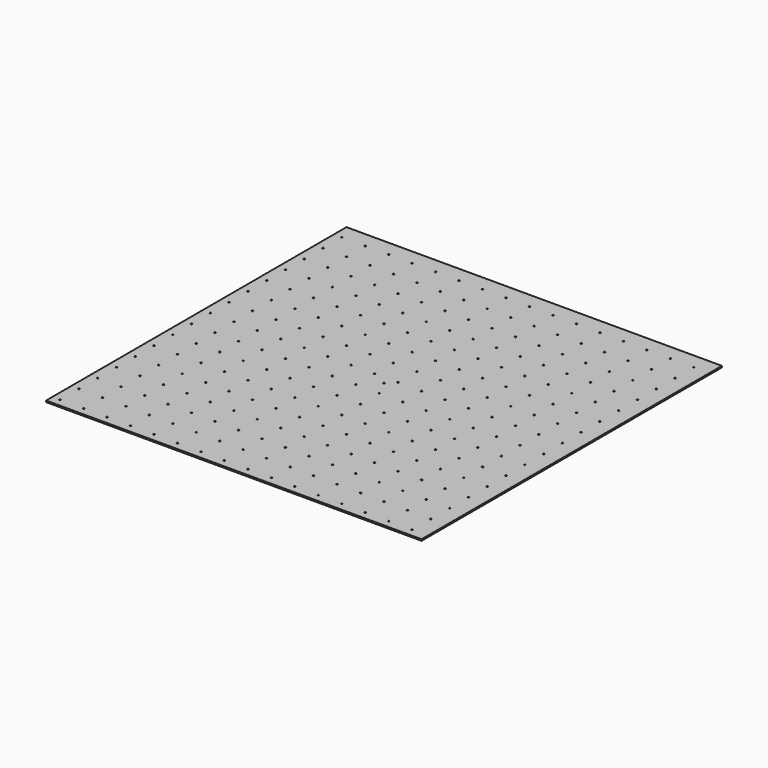
from build123d import *

# Parameters (mm, degrees)
F0_W     = 1219.2
F0_H     = 1219.2
F0_R     = 2.38125
F1_DEPTH = 4.7625


with BuildPart() as f1:
    # F0 (on Top) → F1 (new body)
    with BuildSketch(Plane.XY):
        with Locations((-738.404383, -0.706413)):
            Rectangle(F0_W, F0_H)
        with Locations((-1322.604383, -584.906413)):
            Circle(F0_R, mode=Mode.SUBTRACT)
        with Locations((-1246.404383, -584.906413)):
            Circle(F0_R, mode=Mode.SUBTRACT)
        with Locations((-1322.604383, -508.706413)):
            Circle(F0_R, mode=Mode.SUBTRACT)
        with Locations((-1246.404383, -508.706413)):
            Circle(F0_R, mode=Mode.SUBTRACT)
        with Locations((-1170.204383, -584.906413)):
            Circle(F0_R, mode=Mode.SUBTRACT)
        with Locations((-1094.004383, -584.906413)):
            Circle(F0_R, mode=Mode.SUBTRACT)
        with Locations((-1170.204383, -508.706413)):
            Circle(F0_R, mode=Mode.SUBTRACT)
        with Locations((-1094.004383, -508.706413)):
            Circle(F0_R, mode=Mode.SUBTRACT)
        with Locations((-1322.604383, -432.506413)):
            Circle(F0_R, mode=Mode.SUBTRACT)
        with Locations((-1246.404383, -432.506413)):
            Circle(F0_R, mode=Mode.SUBTRACT)
        with Locations((-1322.604383, -356.306413)):
            Circle(F0_R, mode=Mode.SUBTRACT)
        with Locations((-1246.404383, -356.306413)):
            Circle(F0_R, mode=Mode.SUBTRACT)
        with Locations((-1170.204383, -432.506413)):
            Circle(F0_R, mode=Mode.SUBTRACT)
        with Locations((-1094.004383, -432.506413)):
            Circle(F0_R, mode=Mode.SUBTRACT)
        with Locations((-1170.204383, -356.306413)):
            Circle(F0_R, mode=Mode.SUBTRACT)
        with Locations((-1094.004383, -356.306413)):
            Circle(F0_R, mode=Mode.SUBTRACT)
        with Locations((-1017.804383, -584.906413)):
            Circle(F0_R, mode=Mode.SUBTRACT)
        with Locations((-941.604383, -584.906413)):
            Circle(F0_R, mode=Mode.SUBTRACT)
        with Locations((-1017.804383, -508.706413)):
            Circle(F0_R, mode=Mode.SUBTRACT)
        with Locations((-941.604383, -508.706413)):
            Circle(F0_R, mode=Mode.SUBTRACT)
        with Locations((-865.404383, -584.906413)):
            Circle(F0_R, mode=Mode.SUBTRACT)
        with Locations((-789.204383, -584.906413)):
            Circle(F0_R, mode=Mode.SUBTRACT)
        with Locations((-865.404383, -508.706413)):
            Circle(F0_R, mode=Mode.SUBTRACT)
        with Locations((-789.204383, -508.706413)):
            Circle(F0_R, mode=Mode.SUBTRACT)
        with Locations((-1017.804383, -432.506413)):
            Circle(F0_R, mode=Mode.SUBTRACT)
        with Locations((-941.604383, -432.506413)):
            Circle(F0_R, mode=Mode.SUBTRACT)
        with Locations((-1017.804383, -356.306413)):
            Circle(F0_R, mode=Mode.SUBTRACT)
        with Locations((-941.604383, -356.306413)):
            Circle(F0_R, mode=Mode.SUBTRACT)
        with Locations((-865.404383, -432.506413)):
            Circle(F0_R, mode=Mode.SUBTRACT)
        with Locations((-789.204383, -432.506413)):
            Circle(F0_R, mode=Mode.SUBTRACT)
        with Locations((-865.404383, -356.306413)):
            Circle(F0_R, mode=Mode.SUBTRACT)
        with Locations((-789.204383, -356.306413)):
            Circle(F0_R, mode=Mode.SUBTRACT)
        with Locations((-1322.604383, -280.106413)):
            Circle(F0_R, mode=Mode.SUBTRACT)
        with Locations((-1246.404383, -280.106413)):
            Circle(F0_R, mode=Mode.SUBTRACT)
        with Locations((-1322.604383, -203.906413)):
            Circle(F0_R, mode=Mode.SUBTRACT)
        with Locations((-1246.404383, -203.906413)):
            Circle(F0_R, mode=Mode.SUBTRACT)
        with Locations((-1170.204383, -280.106413)):
            Circle(F0_R, mode=Mode.SUBTRACT)
        with Locations((-1094.004383, -280.106413)):
            Circle(F0_R, mode=Mode.SUBTRACT)
        with Locations((-1170.204383, -203.906413)):
            Circle(F0_R, mode=Mode.SUBTRACT)
        with Locations((-1094.004383, -203.906413)):
            Circle(F0_R, mode=Mode.SUBTRACT)
        with Locations((-1322.604383, -127.706413)):
            Circle(F0_R, mode=Mode.SUBTRACT)
        with Locations((-1246.404383, -127.706413)):
            Circle(F0_R, mode=Mode.SUBTRACT)
        with Locations((-1322.604383, -51.506413)):
            Circle(F0_R, mode=Mode.SUBTRACT)
        with Locations((-1246.404383, -51.506413)):
            Circle(F0_R, mode=Mode.SUBTRACT)
        with Locations((-1170.204383, -127.706413)):
            Circle(F0_R, mode=Mode.SUBTRACT)
        with Locations((-1094.004383, -127.706413)):
            Circle(F0_R, mode=Mode.SUBTRACT)
        with Locations((-1170.204383, -51.506413)):
            Circle(F0_R, mode=Mode.SUBTRACT)
        with Locations((-1094.004383, -51.506413)):
            Circle(F0_R, mode=Mode.SUBTRACT)
        with Locations((-1017.804383, -280.106413)):
            Circle(F0_R, mode=Mode.SUBTRACT)
        with Locations((-941.604383, -280.106413)):
            Circle(F0_R, mode=Mode.SUBTRACT)
        with Locations((-1017.804383, -203.906413)):
            Circle(F0_R, mode=Mode.SUBTRACT)
        with Locations((-941.604383, -203.906413)):
            Circle(F0_R, mode=Mode.SUBTRACT)
        with Locations((-865.404383, -280.106413)):
            Circle(F0_R, mode=Mode.SUBTRACT)
        with Locations((-789.204383, -280.106413)):
            Circle(F0_R, mode=Mode.SUBTRACT)
        with Locations((-865.404383, -203.906413)):
            Circle(F0_R, mode=Mode.SUBTRACT)
        with Locations((-789.204383, -203.906413)):
            Circle(F0_R, mode=Mode.SUBTRACT)
        with Locations((-1017.804383, -127.706413)):
            Circle(F0_R, mode=Mode.SUBTRACT)
        with Locations((-941.604383, -127.706413)):
            Circle(F0_R, mode=Mode.SUBTRACT)
        with Locations((-1017.804383, -51.506413)):
            Circle(F0_R, mode=Mode.SUBTRACT)
        with Locations((-941.604383, -51.506413)):
            Circle(F0_R, mode=Mode.SUBTRACT)
        with Locations((-865.404383, -127.706413)):
            Circle(F0_R, mode=Mode.SUBTRACT)
        with Locations((-789.204383, -127.706413)):
            Circle(F0_R, mode=Mode.SUBTRACT)
        with Locations((-865.404383, -51.506413)):
            Circle(F0_R, mode=Mode.SUBTRACT)
        with Locations((-789.204383, -51.506413)):
            Circle(F0_R, mode=Mode.SUBTRACT)
        with Locations((-713.004383, -584.906413)):
            Circle(F0_R, mode=Mode.SUBTRACT)
        with Locations((-636.804383, -584.906413)):
            Circle(F0_R, mode=Mode.SUBTRACT)
        with Locations((-713.004383, -508.706413)):
            Circle(F0_R, mode=Mode.SUBTRACT)
        with Locations((-636.804383, -508.706413)):
            Circle(F0_R, mode=Mode.SUBTRACT)
        with Locations((-560.604383, -584.906413)):
            Circle(F0_R, mode=Mode.SUBTRACT)
        with Locations((-484.404383, -584.906413)):
            Circle(F0_R, mode=Mode.SUBTRACT)
        with Locations((-560.604383, -508.706413)):
            Circle(F0_R, mode=Mode.SUBTRACT)
        with Locations((-484.404383, -508.706413)):
            Circle(F0_R, mode=Mode.SUBTRACT)
        with Locations((-713.004383, -432.506413)):
            Circle(F0_R, mode=Mode.SUBTRACT)
        with Locations((-636.804383, -432.506413)):
            Circle(F0_R, mode=Mode.SUBTRACT)
        with Locations((-713.004383, -356.306413)):
            Circle(F0_R, mode=Mode.SUBTRACT)
        with Locations((-636.804383, -356.306413)):
            Circle(F0_R, mode=Mode.SUBTRACT)
        with Locations((-560.604383, -432.506413)):
            Circle(F0_R, mode=Mode.SUBTRACT)
        with Locations((-484.404383, -432.506413)):
            Circle(F0_R, mode=Mode.SUBTRACT)
        with Locations((-560.604383, -356.306413)):
            Circle(F0_R, mode=Mode.SUBTRACT)
        with Locations((-484.404383, -356.306413)):
            Circle(F0_R, mode=Mode.SUBTRACT)
        with Locations((-408.204383, -584.906413)):
            Circle(F0_R, mode=Mode.SUBTRACT)
        with Locations((-332.004383, -584.906413)):
            Circle(F0_R, mode=Mode.SUBTRACT)
        with Locations((-408.204383, -508.706413)):
            Circle(F0_R, mode=Mode.SUBTRACT)
        with Locations((-332.004383, -508.706413)):
            Circle(F0_R, mode=Mode.SUBTRACT)
        with Locations((-255.804383, -584.906413)):
            Circle(F0_R, mode=Mode.SUBTRACT)
        with Locations((-179.604383, -584.906413)):
            Circle(F0_R, mode=Mode.SUBTRACT)
        with Locations((-255.804383, -508.706413)):
            Circle(F0_R, mode=Mode.SUBTRACT)
        with Locations((-179.604383, -508.706413)):
            Circle(F0_R, mode=Mode.SUBTRACT)
        with Locations((-408.204383, -432.506413)):
            Circle(F0_R, mode=Mode.SUBTRACT)
        with Locations((-332.004383, -432.506413)):
            Circle(F0_R, mode=Mode.SUBTRACT)
        with Locations((-408.204383, -356.306413)):
            Circle(F0_R, mode=Mode.SUBTRACT)
        with Locations((-332.004383, -356.306413)):
            Circle(F0_R, mode=Mode.SUBTRACT)
        with Locations((-255.804383, -432.506413)):
            Circle(F0_R, mode=Mode.SUBTRACT)
        with Locations((-179.604383, -432.506413)):
            Circle(F0_R, mode=Mode.SUBTRACT)
        with Locations((-255.804383, -356.306413)):
            Circle(F0_R, mode=Mode.SUBTRACT)
        with Locations((-179.604383, -356.306413)):
            Circle(F0_R, mode=Mode.SUBTRACT)
        with Locations((-713.004383, -280.106413)):
            Circle(F0_R, mode=Mode.SUBTRACT)
        with Locations((-636.804383, -280.106413)):
            Circle(F0_R, mode=Mode.SUBTRACT)
        with Locations((-713.004383, -203.906413)):
            Circle(F0_R, mode=Mode.SUBTRACT)
        with Locations((-636.804383, -203.906413)):
            Circle(F0_R, mode=Mode.SUBTRACT)
        with Locations((-560.604383, -280.106413)):
            Circle(F0_R, mode=Mode.SUBTRACT)
        with Locations((-484.404383, -280.106413)):
            Circle(F0_R, mode=Mode.SUBTRACT)
        with Locations((-560.604383, -203.906413)):
            Circle(F0_R, mode=Mode.SUBTRACT)
        with Locations((-484.404383, -203.906413)):
            Circle(F0_R, mode=Mode.SUBTRACT)
        with Locations((-713.004383, -127.706413)):
            Circle(F0_R, mode=Mode.SUBTRACT)
        with Locations((-636.804383, -127.706413)):
            Circle(F0_R, mode=Mode.SUBTRACT)
        with Locations((-713.004383, -51.506413)):
            Circle(F0_R, mode=Mode.SUBTRACT)
        with Locations((-636.804383, -51.506413)):
            Circle(F0_R, mode=Mode.SUBTRACT)
        with Locations((-560.604383, -127.706413)):
            Circle(F0_R, mode=Mode.SUBTRACT)
        with Locations((-484.404383, -127.706413)):
            Circle(F0_R, mode=Mode.SUBTRACT)
        with Locations((-560.604383, -51.506413)):
            Circle(F0_R, mode=Mode.SUBTRACT)
        with Locations((-484.404383, -51.506413)):
            Circle(F0_R, mode=Mode.SUBTRACT)
        with Locations((-408.204383, -280.106413)):
            Circle(F0_R, mode=Mode.SUBTRACT)
        with Locations((-332.004383, -280.106413)):
            Circle(F0_R, mode=Mode.SUBTRACT)
        with Locations((-408.204383, -203.906413)):
            Circle(F0_R, mode=Mode.SUBTRACT)
        with Locations((-332.004383, -203.906413)):
            Circle(F0_R, mode=Mode.SUBTRACT)
        with Locations((-255.804383, -280.106413)):
            Circle(F0_R, mode=Mode.SUBTRACT)
        with Locations((-179.604383, -280.106413)):
            Circle(F0_R, mode=Mode.SUBTRACT)
        with Locations((-255.804383, -203.906413)):
            Circle(F0_R, mode=Mode.SUBTRACT)
        with Locations((-179.604383, -203.906413)):
            Circle(F0_R, mode=Mode.SUBTRACT)
        with Locations((-408.204383, -127.706413)):
            Circle(F0_R, mode=Mode.SUBTRACT)
        with Locations((-332.004383, -127.706413)):
            Circle(F0_R, mode=Mode.SUBTRACT)
        with Locations((-408.204383, -51.506413)):
            Circle(F0_R, mode=Mode.SUBTRACT)
        with Locations((-332.004383, -51.506413)):
            Circle(F0_R, mode=Mode.SUBTRACT)
        with Locations((-255.804383, -127.706413)):
            Circle(F0_R, mode=Mode.SUBTRACT)
        with Locations((-179.604383, -127.706413)):
            Circle(F0_R, mode=Mode.SUBTRACT)
        with Locations((-255.804383, -51.506413)):
            Circle(F0_R, mode=Mode.SUBTRACT)
        with Locations((-179.604383, -51.506413)):
            Circle(F0_R, mode=Mode.SUBTRACT)
        with Locations((-1322.604383, 24.693587)):
            Circle(F0_R, mode=Mode.SUBTRACT)
        with Locations((-1246.404383, 24.693587)):
            Circle(F0_R, mode=Mode.SUBTRACT)
        with Locations((-1322.604383, 100.893587)):
            Circle(F0_R, mode=Mode.SUBTRACT)
        with Locations((-1246.404383, 100.893587)):
            Circle(F0_R, mode=Mode.SUBTRACT)
        with Locations((-1170.204383, 24.693587)):
            Circle(F0_R, mode=Mode.SUBTRACT)
        with Locations((-1094.004383, 24.693587)):
            Circle(F0_R, mode=Mode.SUBTRACT)
        with Locations((-1170.204383, 100.893587)):
            Circle(F0_R, mode=Mode.SUBTRACT)
        with Locations((-1094.004383, 100.893587)):
            Circle(F0_R, mode=Mode.SUBTRACT)
        with Locations((-1322.604383, 177.093587)):
            Circle(F0_R, mode=Mode.SUBTRACT)
        with Locations((-1246.404383, 177.093587)):
            Circle(F0_R, mode=Mode.SUBTRACT)
        with Locations((-1322.604383, 253.293587)):
            Circle(F0_R, mode=Mode.SUBTRACT)
        with Locations((-1246.404383, 253.293587)):
            Circle(F0_R, mode=Mode.SUBTRACT)
        with Locations((-1170.204383, 177.093587)):
            Circle(F0_R, mode=Mode.SUBTRACT)
        with Locations((-1094.004383, 177.093587)):
            Circle(F0_R, mode=Mode.SUBTRACT)
        with Locations((-1170.204383, 253.293587)):
            Circle(F0_R, mode=Mode.SUBTRACT)
        with Locations((-1094.004383, 253.293587)):
            Circle(F0_R, mode=Mode.SUBTRACT)
        with Locations((-1017.804383, 24.693587)):
            Circle(F0_R, mode=Mode.SUBTRACT)
        with Locations((-941.604383, 24.693587)):
            Circle(F0_R, mode=Mode.SUBTRACT)
        with Locations((-1017.804383, 100.893587)):
            Circle(F0_R, mode=Mode.SUBTRACT)
        with Locations((-941.604383, 100.893587)):
            Circle(F0_R, mode=Mode.SUBTRACT)
        with Locations((-865.404383, 24.693587)):
            Circle(F0_R, mode=Mode.SUBTRACT)
        with Locations((-789.204383, 24.693587)):
            Circle(F0_R, mode=Mode.SUBTRACT)
        with Locations((-865.404383, 100.893587)):
            Circle(F0_R, mode=Mode.SUBTRACT)
        with Locations((-789.204383, 100.893587)):
            Circle(F0_R, mode=Mode.SUBTRACT)
        with Locations((-1017.804383, 177.093587)):
            Circle(F0_R, mode=Mode.SUBTRACT)
        with Locations((-941.604383, 177.093587)):
            Circle(F0_R, mode=Mode.SUBTRACT)
        with Locations((-1017.804383, 253.293587)):
            Circle(F0_R, mode=Mode.SUBTRACT)
        with Locations((-941.604383, 253.293587)):
            Circle(F0_R, mode=Mode.SUBTRACT)
        with Locations((-865.404383, 177.093587)):
            Circle(F0_R, mode=Mode.SUBTRACT)
        with Locations((-789.204383, 177.093587)):
            Circle(F0_R, mode=Mode.SUBTRACT)
        with Locations((-865.404383, 253.293587)):
            Circle(F0_R, mode=Mode.SUBTRACT)
        with Locations((-789.204383, 253.293587)):
            Circle(F0_R, mode=Mode.SUBTRACT)
        with Locations((-1322.604383, 329.493587)):
            Circle(F0_R, mode=Mode.SUBTRACT)
        with Locations((-1246.404383, 329.493587)):
            Circle(F0_R, mode=Mode.SUBTRACT)
        with Locations((-1322.604383, 405.693587)):
            Circle(F0_R, mode=Mode.SUBTRACT)
        with Locations((-1246.404383, 405.693587)):
            Circle(F0_R, mode=Mode.SUBTRACT)
        with Locations((-1170.204383, 329.493587)):
            Circle(F0_R, mode=Mode.SUBTRACT)
        with Locations((-1094.004383, 329.493587)):
            Circle(F0_R, mode=Mode.SUBTRACT)
        with Locations((-1170.204383, 405.693587)):
            Circle(F0_R, mode=Mode.SUBTRACT)
        with Locations((-1094.004383, 405.693587)):
            Circle(F0_R, mode=Mode.SUBTRACT)
        with Locations((-1322.604383, 481.893587)):
            Circle(F0_R, mode=Mode.SUBTRACT)
        with Locations((-1246.404383, 481.893587)):
            Circle(F0_R, mode=Mode.SUBTRACT)
        with Locations((-1322.604383, 558.093587)):
            Circle(F0_R, mode=Mode.SUBTRACT)
        with Locations((-1246.404383, 558.093587)):
            Circle(F0_R, mode=Mode.SUBTRACT)
        with Locations((-1170.204383, 481.893587)):
            Circle(F0_R, mode=Mode.SUBTRACT)
        with Locations((-1094.004383, 481.893587)):
            Circle(F0_R, mode=Mode.SUBTRACT)
        with Locations((-1170.204383, 558.093587)):
            Circle(F0_R, mode=Mode.SUBTRACT)
        with Locations((-1094.004383, 558.093587)):
            Circle(F0_R, mode=Mode.SUBTRACT)
        with Locations((-1017.804383, 329.493587)):
            Circle(F0_R, mode=Mode.SUBTRACT)
        with Locations((-941.604383, 329.493587)):
            Circle(F0_R, mode=Mode.SUBTRACT)
        with Locations((-1017.804383, 405.693587)):
            Circle(F0_R, mode=Mode.SUBTRACT)
        with Locations((-941.604383, 405.693587)):
            Circle(F0_R, mode=Mode.SUBTRACT)
        with Locations((-865.404383, 329.493587)):
            Circle(F0_R, mode=Mode.SUBTRACT)
        with Locations((-789.204383, 329.493587)):
            Circle(F0_R, mode=Mode.SUBTRACT)
        with Locations((-865.404383, 405.693587)):
            Circle(F0_R, mode=Mode.SUBTRACT)
        with Locations((-789.204383, 405.693587)):
            Circle(F0_R, mode=Mode.SUBTRACT)
        with Locations((-1017.804383, 481.893587)):
            Circle(F0_R, mode=Mode.SUBTRACT)
        with Locations((-941.604383, 481.893587)):
            Circle(F0_R, mode=Mode.SUBTRACT)
        with Locations((-1017.804383, 558.093587)):
            Circle(F0_R, mode=Mode.SUBTRACT)
        with Locations((-941.604383, 558.093587)):
            Circle(F0_R, mode=Mode.SUBTRACT)
        with Locations((-865.404383, 481.893587)):
            Circle(F0_R, mode=Mode.SUBTRACT)
        with Locations((-789.204383, 481.893587)):
            Circle(F0_R, mode=Mode.SUBTRACT)
        with Locations((-865.404383, 558.093587)):
            Circle(F0_R, mode=Mode.SUBTRACT)
        with Locations((-789.204383, 558.093587)):
            Circle(F0_R, mode=Mode.SUBTRACT)
        with Locations((-738.404383, -0.706413)):
            Circle(F0_R, mode=Mode.SUBTRACT)
        with Locations((-713.004383, 24.693587)):
            Circle(F0_R, mode=Mode.SUBTRACT)
        with Locations((-636.804383, 24.693587)):
            Circle(F0_R, mode=Mode.SUBTRACT)
        with Locations((-713.004383, 100.893587)):
            Circle(F0_R, mode=Mode.SUBTRACT)
        with Locations((-636.804383, 100.893587)):
            Circle(F0_R, mode=Mode.SUBTRACT)
        with Locations((-560.604383, 24.693587)):
            Circle(F0_R, mode=Mode.SUBTRACT)
        with Locations((-484.404383, 24.693587)):
            Circle(F0_R, mode=Mode.SUBTRACT)
        with Locations((-560.604383, 100.893587)):
            Circle(F0_R, mode=Mode.SUBTRACT)
        with Locations((-484.404383, 100.893587)):
            Circle(F0_R, mode=Mode.SUBTRACT)
        with Locations((-713.004383, 177.093587)):
            Circle(F0_R, mode=Mode.SUBTRACT)
        with Locations((-636.804383, 177.093587)):
            Circle(F0_R, mode=Mode.SUBTRACT)
        with Locations((-713.004383, 253.293587)):
            Circle(F0_R, mode=Mode.SUBTRACT)
        with Locations((-636.804383, 253.293587)):
            Circle(F0_R, mode=Mode.SUBTRACT)
        with Locations((-560.604383, 177.093587)):
            Circle(F0_R, mode=Mode.SUBTRACT)
        with Locations((-484.404383, 177.093587)):
            Circle(F0_R, mode=Mode.SUBTRACT)
        with Locations((-560.604383, 253.293587)):
            Circle(F0_R, mode=Mode.SUBTRACT)
        with Locations((-484.404383, 253.293587)):
            Circle(F0_R, mode=Mode.SUBTRACT)
        with Locations((-408.204383, 24.693587)):
            Circle(F0_R, mode=Mode.SUBTRACT)
        with Locations((-332.004383, 24.693587)):
            Circle(F0_R, mode=Mode.SUBTRACT)
        with Locations((-408.204383, 100.893587)):
            Circle(F0_R, mode=Mode.SUBTRACT)
        with Locations((-332.004383, 100.893587)):
            Circle(F0_R, mode=Mode.SUBTRACT)
        with Locations((-255.804383, 24.693587)):
            Circle(F0_R, mode=Mode.SUBTRACT)
        with Locations((-179.604383, 24.693587)):
            Circle(F0_R, mode=Mode.SUBTRACT)
        with Locations((-255.804383, 100.893587)):
            Circle(F0_R, mode=Mode.SUBTRACT)
        with Locations((-179.604383, 100.893587)):
            Circle(F0_R, mode=Mode.SUBTRACT)
        with Locations((-408.204383, 177.093587)):
            Circle(F0_R, mode=Mode.SUBTRACT)
        with Locations((-332.004383, 177.093587)):
            Circle(F0_R, mode=Mode.SUBTRACT)
        with Locations((-408.204383, 253.293587)):
            Circle(F0_R, mode=Mode.SUBTRACT)
        with Locations((-332.004383, 253.293587)):
            Circle(F0_R, mode=Mode.SUBTRACT)
        with Locations((-255.804383, 177.093587)):
            Circle(F0_R, mode=Mode.SUBTRACT)
        with Locations((-179.604383, 177.093587)):
            Circle(F0_R, mode=Mode.SUBTRACT)
        with Locations((-255.804383, 253.293587)):
            Circle(F0_R, mode=Mode.SUBTRACT)
        with Locations((-179.604383, 253.293587)):
            Circle(F0_R, mode=Mode.SUBTRACT)
        with Locations((-713.004383, 329.493587)):
            Circle(F0_R, mode=Mode.SUBTRACT)
        with Locations((-636.804383, 329.493587)):
            Circle(F0_R, mode=Mode.SUBTRACT)
        with Locations((-713.004383, 405.693587)):
            Circle(F0_R, mode=Mode.SUBTRACT)
        with Locations((-636.804383, 405.693587)):
            Circle(F0_R, mode=Mode.SUBTRACT)
        with Locations((-560.604383, 329.493587)):
            Circle(F0_R, mode=Mode.SUBTRACT)
        with Locations((-484.404383, 329.493587)):
            Circle(F0_R, mode=Mode.SUBTRACT)
        with Locations((-560.604383, 405.693587)):
            Circle(F0_R, mode=Mode.SUBTRACT)
        with Locations((-484.404383, 405.693587)):
            Circle(F0_R, mode=Mode.SUBTRACT)
        with Locations((-713.004383, 481.893587)):
            Circle(F0_R, mode=Mode.SUBTRACT)
        with Locations((-636.804383, 481.893587)):
            Circle(F0_R, mode=Mode.SUBTRACT)
        with Locations((-713.004383, 558.093587)):
            Circle(F0_R, mode=Mode.SUBTRACT)
        with Locations((-636.804383, 558.093587)):
            Circle(F0_R, mode=Mode.SUBTRACT)
        with Locations((-560.604383, 481.893587)):
            Circle(F0_R, mode=Mode.SUBTRACT)
        with Locations((-484.404383, 481.893587)):
            Circle(F0_R, mode=Mode.SUBTRACT)
        with Locations((-560.604383, 558.093587)):
            Circle(F0_R, mode=Mode.SUBTRACT)
        with Locations((-484.404383, 558.093587)):
            Circle(F0_R, mode=Mode.SUBTRACT)
        with Locations((-408.204383, 329.493587)):
            Circle(F0_R, mode=Mode.SUBTRACT)
        with Locations((-332.004383, 329.493587)):
            Circle(F0_R, mode=Mode.SUBTRACT)
        with Locations((-408.204383, 405.693587)):
            Circle(F0_R, mode=Mode.SUBTRACT)
        with Locations((-332.004383, 405.693587)):
            Circle(F0_R, mode=Mode.SUBTRACT)
        with Locations((-255.804383, 329.493587)):
            Circle(F0_R, mode=Mode.SUBTRACT)
        with Locations((-179.604383, 329.493587)):
            Circle(F0_R, mode=Mode.SUBTRACT)
        with Locations((-255.804383, 405.693587)):
            Circle(F0_R, mode=Mode.SUBTRACT)
        with Locations((-179.604383, 405.693587)):
            Circle(F0_R, mode=Mode.SUBTRACT)
        with Locations((-408.204383, 481.893587)):
            Circle(F0_R, mode=Mode.SUBTRACT)
        with Locations((-332.004383, 481.893587)):
            Circle(F0_R, mode=Mode.SUBTRACT)
        with Locations((-408.204383, 558.093587)):
            Circle(F0_R, mode=Mode.SUBTRACT)
        with Locations((-332.004383, 558.093587)):
            Circle(F0_R, mode=Mode.SUBTRACT)
        with Locations((-255.804383, 481.893587)):
            Circle(F0_R, mode=Mode.SUBTRACT)
        with Locations((-179.604383, 481.893587)):
            Circle(F0_R, mode=Mode.SUBTRACT)
        with Locations((-255.804383, 558.093587)):
            Circle(F0_R, mode=Mode.SUBTRACT)
        with Locations((-179.604383, 558.093587)):
            Circle(F0_R, mode=Mode.SUBTRACT)
    extrude(amount=F1_DEPTH)


solid = f1.part
